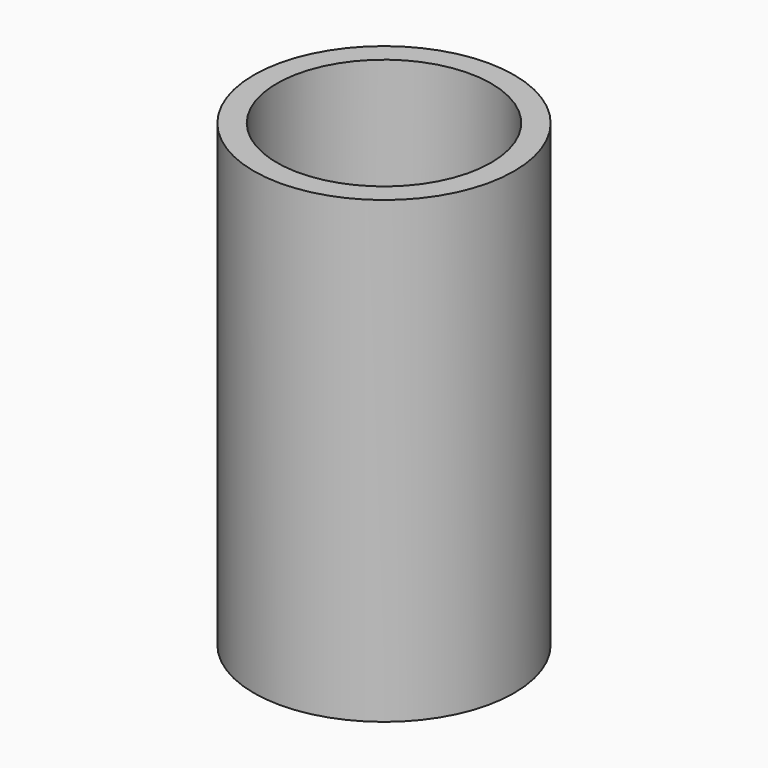
from build123d import *

# Parameters (mm, degrees)
F0_R           = 8.5
F0_R_2         = 7
F1_DEPTH       = 30
F2_R           = 20
F3_DEPTH       = 34
F5_D           = 14
F5_CSINK_D     = 40
F5_CSINK_ANGLE = 47
F6_SIZE2       = 10.919107028
F6_SIZE        = 30
F7_SIZE2       = 0.5
F7_SIZE        = 0.7140740034
F8_W           = 87.9276357591
F8_H           = 44.8519736528
F9_DEPTH       = 20.001
F10_DEPTH      = 20.001


with BuildPart() as f1:
    # F0 (on Top) → F1 (new body)
    with BuildSketch(Plane.XY):
        Circle(F0_R)
        Circle(F0_R_2, mode=Mode.SUBTRACT)
    extrude(amount=F1_DEPTH)

    # F2 (on face) → F3 (join)
    with BuildSketch(Plane(origin=(0, 0, 0), x_dir=(1, 0, 0), z_dir=(0, 0, -1))):
        Circle(F2_R)
    extrude(amount=F3_DEPTH)

    # F5 (through all)
    with Locations(Plane(origin=(0, 0, -34), x_dir=(1, 0, 0), z_dir=(0, 0, -1))):
        with Locations((0, 0)):
            CounterSinkHole(F5_D / 2, F5_CSINK_D / 2, counter_sink_angle=F5_CSINK_ANGLE)

    # F6
    f6_edges = [f1.edges().sort_by_distance(p)[0] for p in [
        (-20, 0, 0),
    ]]
    f6_side = f1.faces().sort_by_distance((-20, 0, -17))[0]
    chamfer(f6_edges, length=F6_SIZE, length2=F6_SIZE2, reference=f6_side)

    # F7
    f7_edges = [f1.edges().sort_by_distance(p)[0] for p in [
        (-9.080893, 0, 0),
    ]]
    f7_side = f1.faces().sort_by_distance((-14.540446, 0, -15))[0]
    chamfer(f7_edges, length=F7_SIZE, length2=F7_SIZE2, reference=f7_side)

    # F8 (on Front) → F9 (cut, through all)
    with BuildSketch(Plane.XZ):
        with Locations((9.7697358578, -22.4259868264)):
            Rectangle(F8_W, F8_H)
    extrude(amount=-F9_DEPTH, mode=Mode.SUBTRACT)

    # F8 (on Front) → F10 (cut, through all)
    with BuildSketch(Plane.XZ):
        with Locations((9.7697358578, -22.4259868264)):
            Rectangle(F8_W, F8_H)
    extrude(amount=F10_DEPTH, mode=Mode.SUBTRACT)


solid = f1.part
